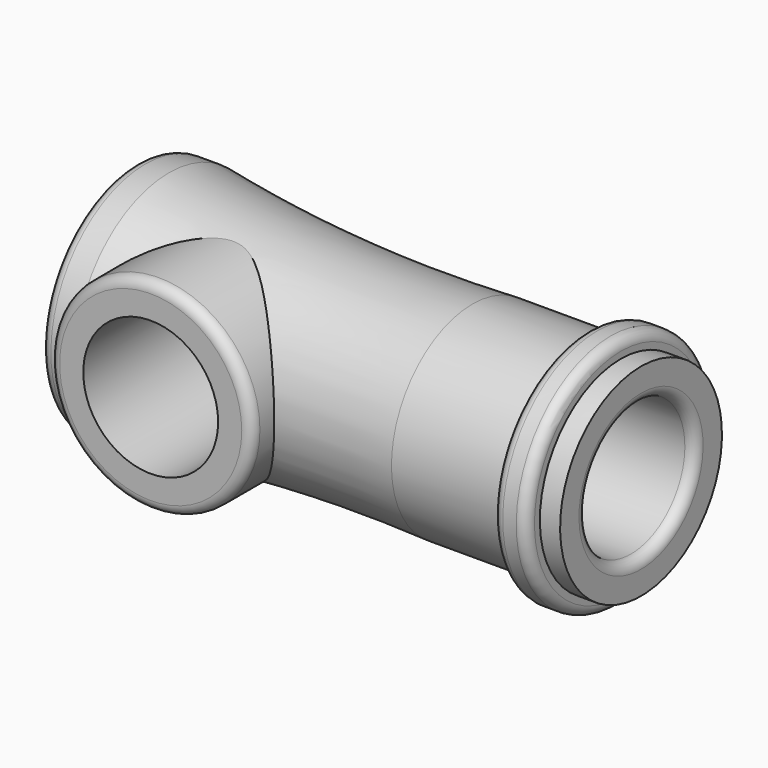
from build123d import *

# Parameters (mm, degrees)
F2_R     = 15
F3_DEPTH = 19
F4_R     = 10
F5_DEPTH = 25
F6_R     = 1.5
F7_R     = 1.5


with BuildPart() as f1:
    # F0 (on Front) → F1 (revolve)
    with BuildSketch(Plane.XZ):
        with BuildLine():
            Line((5, 17.5), (0, 17.5))
            Line((0, 17.5), (0, 0))
            Line((0, 0), (60, 0))
            Line((60, 0), (60, 10))
            Line((60, 10), (75, 10))
            Line((75, 10), (75, 15))
            Line((75, 15), (72, 15))
            Line((72, 15), (72, 17.5))
            Line((72, 17.5), (67, 17.5))
            Line((67, 17.5), (67, 15))
            Line((67, 15), (50, 15))
            ThreePointArc((50, 15), (27.435257, 15.084628), (5, 17.5))
        make_face()
    revolve(axis=Axis((30, 0, 0), (1, 0, 0)))

    # F2 (on Front) → F3 (join)
    with BuildSketch(Plane.XZ):
        with Locations((17.5, 0)):
            Circle(F2_R)
    extrude(amount=F3_DEPTH)

    # F4 (on face) → F5 (cut)
    with BuildSketch(Plane.XZ.offset(19)):
        with Locations((17.5, 0)):
            Circle(F4_R)
    extrude(amount=-F5_DEPTH, mode=Mode.SUBTRACT)

    # F6
    f6_edges = [f1.edges().sort_by_distance(p)[0] for p in [
        (0, 0, -17.5),
        (2.5, -19, 0),
        (67, 0, -17.5),
        (75, 0, -10),
    ]]
    fillet(f6_edges, radius=F6_R)

    # F7
    f7_edges = [f1.edges().sort_by_distance(p)[0] for p in [
        (72, 0, -17.5),
    ]]
    fillet(f7_edges, radius=F7_R)


solid = f1.part
